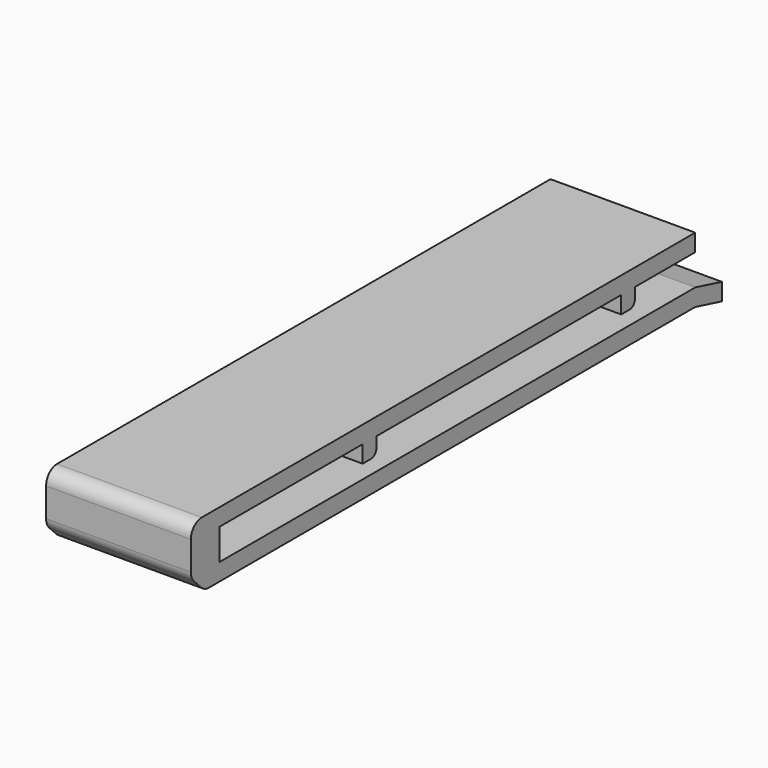
from build123d import *

# Parameters (mm, degrees)
F0_W     = 2.694248
F0_H     = 4.5
F0_H_2   = 2.5
F0_W_2   = 86.305752
F0_W_3   = 26
F0_W_4   = 2.5
F1_DEPTH = 21
F2_R     = 2
F3_R     = 1


with BuildPart() as f1:
    # F0 (on Right) → F1 (new body)
    with BuildSketch(Plane.YZ):
        Polygon((23.180372, 8.721056), (23.180372, 6.221056), (67.568183, 6.221056), (70.068183, 6.221056), (80.986124, 6.221056), (80.986124, 8.721056), align=None)
        with Locations((-6.666752, 3.971056)):
            Rectangle(F0_W, F0_H)
        with Locations((-6.666752, 0.471056)):
            Rectangle(F0_W, F0_H_2)
        with Locations((37.833248, 0.471056)):
            Rectangle(F0_W_2, F0_H_2)
        with Locations((7.680372, 7.471056)):
            Rectangle(F0_W_3, F0_H_2)
        Polygon((-8.013876, -0.778944), (-8.013876, 1.721056), (-8.013876, 6.221056), (-8.013876, 8.721056), (-10.4775, 8.721056), (-10.4775, 7.235875), (-10.4775, 1.721056), align=None)
        with Locations((-6.666752, 7.471056)):
            Rectangle(F0_W, F0_H_2)
        with Locations((21.930372, 7.471056)):
            Rectangle(F0_W_4, F0_H_2)
        with Locations((68.818183, 4.971056)):
            Rectangle(F0_W_4, F0_H_2)
        with Locations((21.930372, 4.971056)):
            Rectangle(F0_W_4, F0_H_2)
        Polygon((85.827354, 0.471056), (80.986124, 1.721056), (80.986124, -0.778944), (85.827354, -2.028944), align=None)
    extrude(amount=F1_DEPTH)

    # F2
    f2_edges = [f1.edges().sort_by_distance(p)[0] for p in [
        (10.5, -10.4775, 8.721056),
        (10.5, -8.013876, -0.778944),
        (10.5, -10.4775, 1.721056),
    ]]
    fillet(f2_edges, radius=F2_R)

    # F3
    f3_edges = [f1.edges().sort_by_distance(p)[0] for p in [
        (10.5, 23.180372, 3.721056),
        (10.5, 70.068183, 3.721056),
    ]]
    fillet(f3_edges, radius=F3_R)


solid = f1.part
